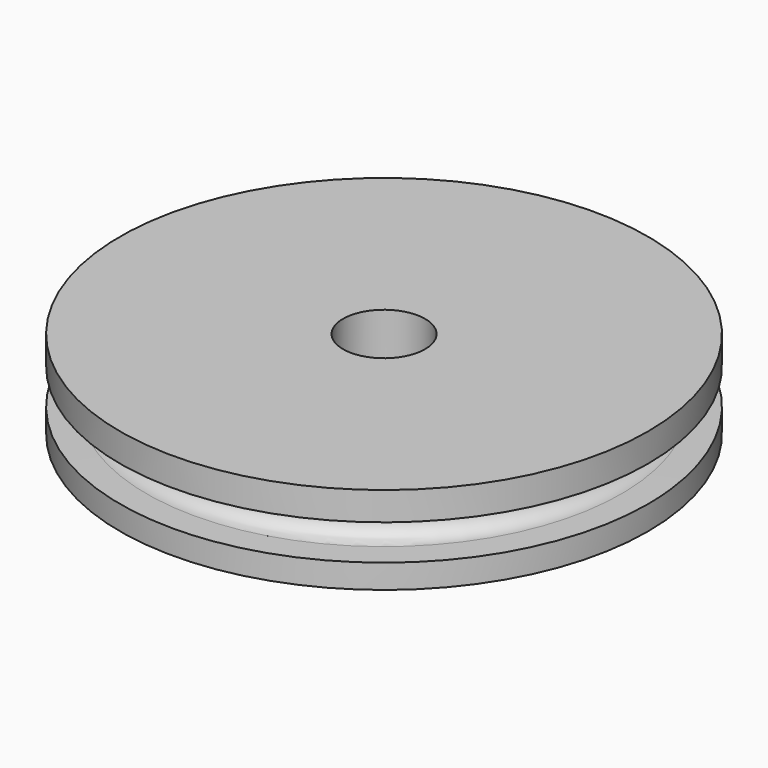
from build123d import *

# Parameters (mm, degrees)
F0_R     = 9
F0_R_2   = 1.4
F1_DEPTH = 3


with BuildPart() as f1:
    # F0 (on Top) → F1 (new body)
    with BuildSketch(Plane.XY):
        with Locations((-25.063416, 15.770752)):
            Circle(F0_R)
        with Locations((-25.063416, 15.770752)):
            Circle(F0_R_2, mode=Mode.SUBTRACT)
    extrude(amount=F1_DEPTH)


with BuildPart() as f1_1:
    # F3: moved
    add(f1.part.moved(Location((25.1714, 0, 0))))


with BuildPart() as f1_2:
    # F4: moved
    add(f1_1.part.moved(Location((-0.10792, -15.77066, 0))))

    # F2 (on Right) → F6 (revolve, cut)
    with BuildSketch(Plane.YZ):
        with BuildLine():
            ThreePointArc((-8.092892, 0.83043), (-7.67323, 1.008644), (-7.5, 1.430388))
            ThreePointArc((-7.5, 1.430388), (-7.678471, 1.857369), (-8.10771, 2.030338))
            ThreePointArc((-8.10771, 2.030338), (-8.699954, 1.422979), (-8.092892, 0.83043))
        make_face()
        with BuildLine():
            ThreePointArc((-8.092892, 0.83043), (-8.699954, 1.422979), (-8.10771, 2.030338))
            Line((-8.10771, 2.030338), (-10.503868, 2.030338))
            Line((-10.503868, 2.030338), (-10.503868, 0.801864))
            Line((-10.503868, 0.801864), (-8.092892, 0.83043))
        make_face()
    revolve(axis=Axis((0, 0, 1.962848), (0, 0, -1)), mode=Mode.SUBTRACT)


solid = f1_2.part
